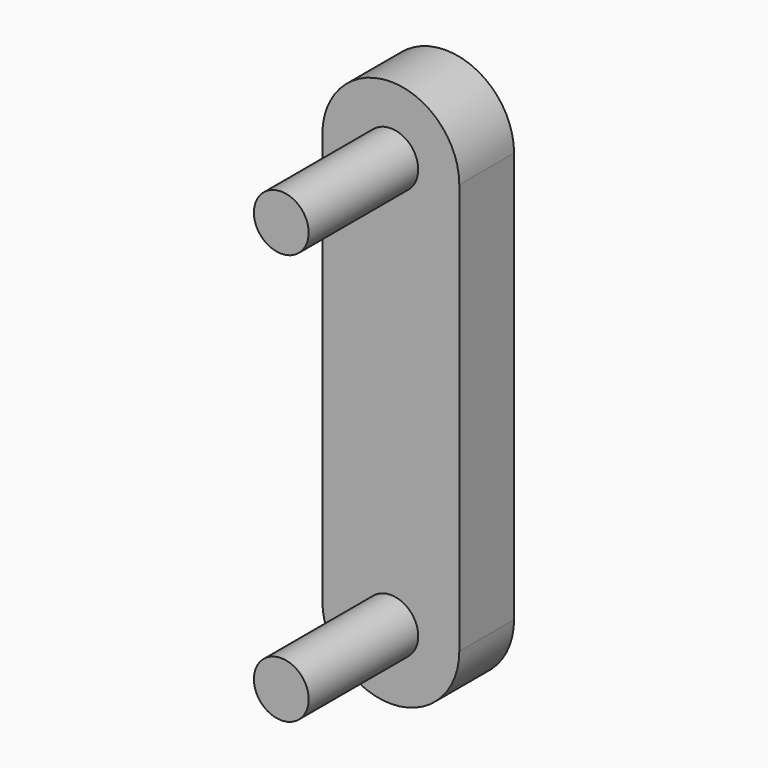
from build123d import *

# Parameters (mm, degrees)
F0_W     = 10
F0_H     = 30
F1_DEPTH = 5
F3_DEPTH = 15


with BuildPart() as f1:
    # F0 (on Front) → F1 (new body)
    with BuildSketch(Plane.XZ):
        with BuildLine():
            Line((5, -15), (-5, -15))
            ThreePointArc((-5, -15), (0, -20), (5, -15))
        make_face()
        with BuildLine():
            ThreePointArc((5, 15), (0, 20), (-5, 15))
            Line((-5, 15), (5, 15))
        make_face()
        Rectangle(F0_W, F0_H)
    extrude(amount=F1_DEPTH)

    # F2 (on Front) → F3 (join)
    with BuildSketch(Plane.XZ):
        with BuildLine():
            ThreePointArc((-2, 15), (0, 13), (2, 15))
            Line((2, 15), (-2, 15))
        make_face()
        with BuildLine():
            Line((-2, 15), (2, 15))
            ThreePointArc((2, 15), (0, 17), (-2, 15))
        make_face()
        with BuildLine():
            ThreePointArc((-2, -15), (0, -17), (2, -15))
            Line((2, -15), (-2, -15))
        make_face()
        with BuildLine():
            Line((-2, -15), (2, -15))
            ThreePointArc((2, -15), (0, -13), (-2, -15))
        make_face()
    extrude(amount=F3_DEPTH)


solid = f1.part
